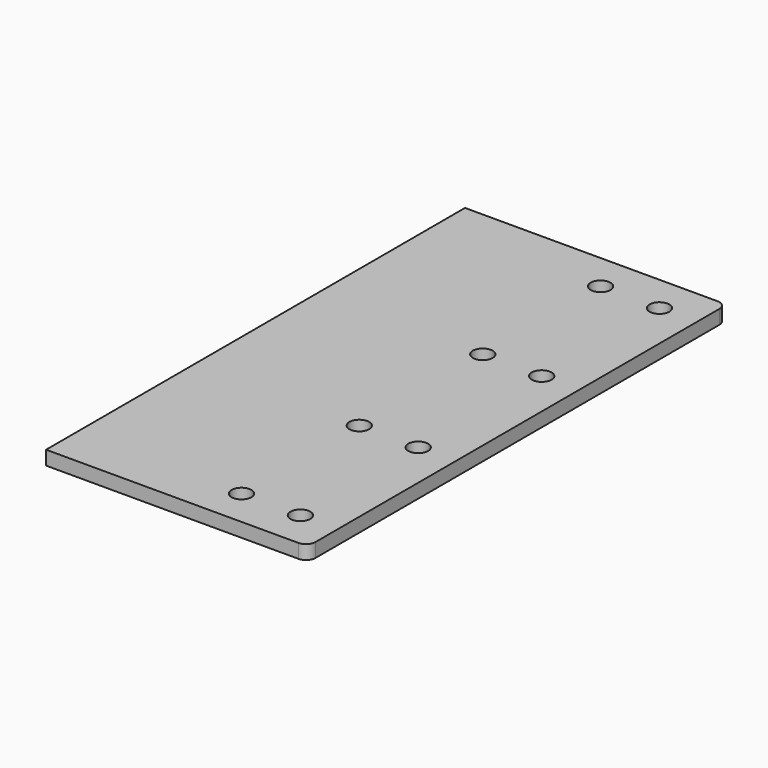
from build123d import *

# Parameters (mm, degrees)
F0_R     = 6.731
F1_DEPTH = 9.525


with BuildPart() as f1:
    # F0 (on Top) → F1 (new body)
    with BuildSketch(Plane.XY):
        with BuildLine():
            Line((-88.9, 177.8), (-88.9, -177.8))
            Line((-88.9, -177.8), (82.55, -177.8))
            ThreePointArc((82.55, -177.8), (87.040128, -175.940128), (88.9, -171.45))
            Line((88.9, -171.45), (88.9, 171.45))
            ThreePointArc((88.9, 171.45), (87.040128, 175.940128), (82.55, 177.8))
            Line((82.55, 177.8), (-88.9, 177.8))
        make_face()
        with Locations((23.50008, -152.4)):
            Circle(F0_R, mode=Mode.SUBTRACT)
        with Locations((63.5, -152.4)):
            Circle(F0_R, mode=Mode.SUBTRACT)
        with Locations((23.50008, -52.4002)):
            Circle(F0_R, mode=Mode.SUBTRACT)
        with Locations((63.5, -52.4002)):
            Circle(F0_R, mode=Mode.SUBTRACT)
        with Locations((23.50008, 52.4002)):
            Circle(F0_R, mode=Mode.SUBTRACT)
        with Locations((63.5, 52.4002)):
            Circle(F0_R, mode=Mode.SUBTRACT)
        with Locations((23.50008, 152.4)):
            Circle(F0_R, mode=Mode.SUBTRACT)
        with Locations((63.5, 152.4)):
            Circle(F0_R, mode=Mode.SUBTRACT)
    extrude(amount=F1_DEPTH)


solid = f1.part
